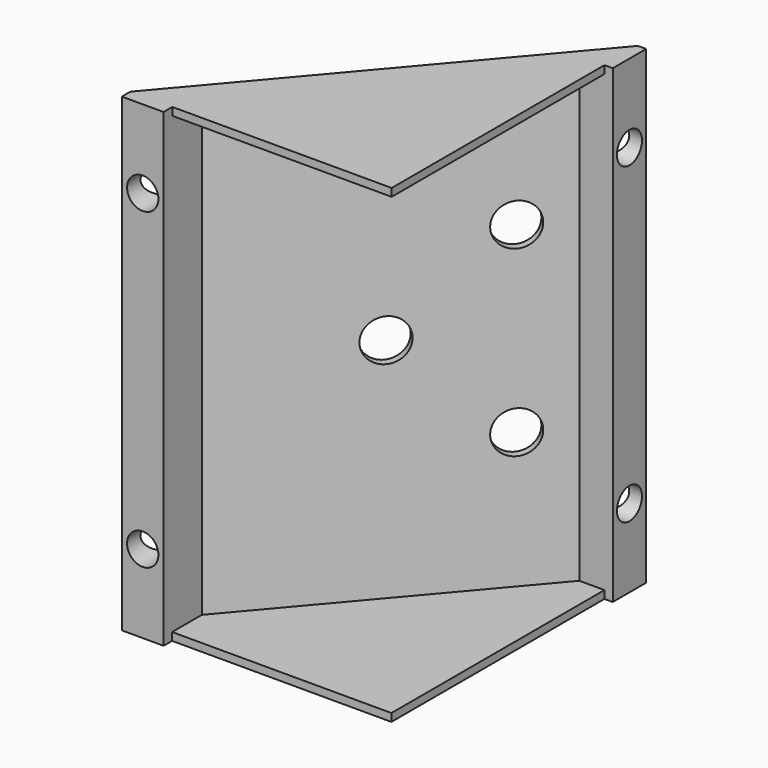
from build123d import *

# Parameters (mm, degrees)
F1_DEPTH  = 90
F2_R      = 4.05
F3_DEPTH  = 25
F5_DEPTH  = 25
F6_R      = 1.75
F7_DEPTH  = 25
F9_R      = 3
F10_DEPTH = 25
F12_R     = 3
F13_DEPTH = 25
F14_SIZE  = 2
F15_R     = 1
F17_DEPTH = 1.5
F19_DEPTH = 1.5
F20_W     = 9.3469619751
F20_H     = 10.4837566614
F20_W_2   = 11.7468573153
F20_H_2   = 8.0838575959
F21_DEPTH = 90.001


with BuildPart() as f1:
    # F0 (on Top) → F1 (new body)
    with BuildSketch(Plane.XY):
        Polygon((70, 89), (61, 89), (11, 30), (11, 21), (19, 21), (19, 30), (19, 33.3303359461), (19, 37.1198922439), (56.1865319967, 81), (61, 81), (70, 81), align=None)
    extrude(amount=F1_DEPTH)

    # F2 (on face) → F3 (cut)
    with BuildSketch(Plane(origin=(-8.3947500418, 7.1141949507, 0), x_dir=(-0.6465216954, -0.7628956006, 0), z_dir=(-0.7628956006, 0.6465216954, 0))):
        with Locations((-88.5814800858, 27.5)):
            Circle(F2_R)
        with Locations((-88.5814800858, 62.5)):
            Circle(F2_R)
        with Locations((-68.6670692686, 45)):
            Circle(F2_R)
    extrude(amount=-F3_DEPTH, mode=Mode.SUBTRACT)

    # F4 (on face) → F5 (cut)
    with BuildSketch(Plane.XZ.offset(-21)):
        with BuildLine():
            ThreePointArc((16.75, 75), (16.2374368671, 76.2374368671), (15, 76.75))
            Line((15, 76.75), (15, 73.25))
            ThreePointArc((15, 73.25), (16.2374368671, 73.7625631329), (16.75, 75))
        make_face()
        with BuildLine():
            ThreePointArc((16.75, 15), (16.2374368671, 16.2374368671), (15, 16.75))
            Line((15, 16.75), (15, 13.25))
            ThreePointArc((15, 13.25), (16.2374368671, 13.7625631329), (16.75, 15))
        make_face()
        with BuildLine():
            Line((15, 13.25), (15, 16.75))
            ThreePointArc((15, 16.75), (13.25, 15), (15, 13.25))
        make_face()
        with BuildLine():
            Line((15, 73.25), (15, 76.75))
            ThreePointArc((15, 76.75), (13.25, 75), (15, 73.25))
        make_face()
    extrude(amount=-F5_DEPTH, mode=Mode.SUBTRACT)

    # F6 (on face) → F7 (cut)
    with BuildSketch(Plane.YZ.offset(70)):
        with Locations((85, 75)):
            Circle(F6_R)
        with Locations((85, 15)):
            Circle(F6_R)
    extrude(amount=-F7_DEPTH, mode=Mode.SUBTRACT)

    # F9 (on offset) → F10 (cut)
    with BuildSketch(Plane.YZ.offset(65)):
        with Locations((85, 75)):
            Circle(F9_R)
        with Locations((85, 15)):
            Circle(F9_R)
    extrude(amount=-F10_DEPTH, mode=Mode.SUBTRACT)

    # F12 (on offset) → F13 (cut)
    with BuildSketch(Plane.XZ.offset(-26)):
        with Locations((15, 75)):
            Circle(F12_R)
        with Locations((15, 15)):
            Circle(F12_R)
    extrude(amount=-F13_DEPTH, mode=Mode.SUBTRACT)

    # F14
    f14_edges = [f1.edges().sort_by_distance(p)[0] for p in [
        (70, 81, 45),
        (70, 89, 45),
        (19, 21, 45),
        (11, 21, 45),
    ]]
    chamfer(f14_edges, length=F14_SIZE)

    # F15
    f15_edges = [f1.edges().sort_by_distance(p)[0] for p in [
        (61, 89, 45),
        (11, 30, 45),
    ]]
    fillet(f15_edges, radius=F15_R)

    # F16 (on face) → F17 (join)
    with BuildSketch(Plane.XY.offset(90)):
        Polygon((19, 37.1198922439), (19, 30.0599461219), (61, 30.0599461219), (61, 81), (56.1865319967, 81), align=None)
    extrude(amount=-F17_DEPTH)

    # F18 (on face) → F19 (join)
    with BuildSketch(Plane.XY):
        Polygon((61, 30), (61, 81), (56.1865319967, 81), (19, 37.1198922439), (19, 30), align=None)
    extrude(amount=F19_DEPTH)

    # F20 (on face) → F21 (cut, through all)
    with BuildSketch(Plane.XY.offset(90)):
        with Locations((67.2643706203, 84.9928185344)):
            Rectangle(F20_W, F20_H)
        with Locations((15.4358148575, 23.9219143987)):
            Rectangle(F20_W_2, F20_H_2)
    extrude(amount=-F21_DEPTH, mode=Mode.SUBTRACT)


solid = f1.part
